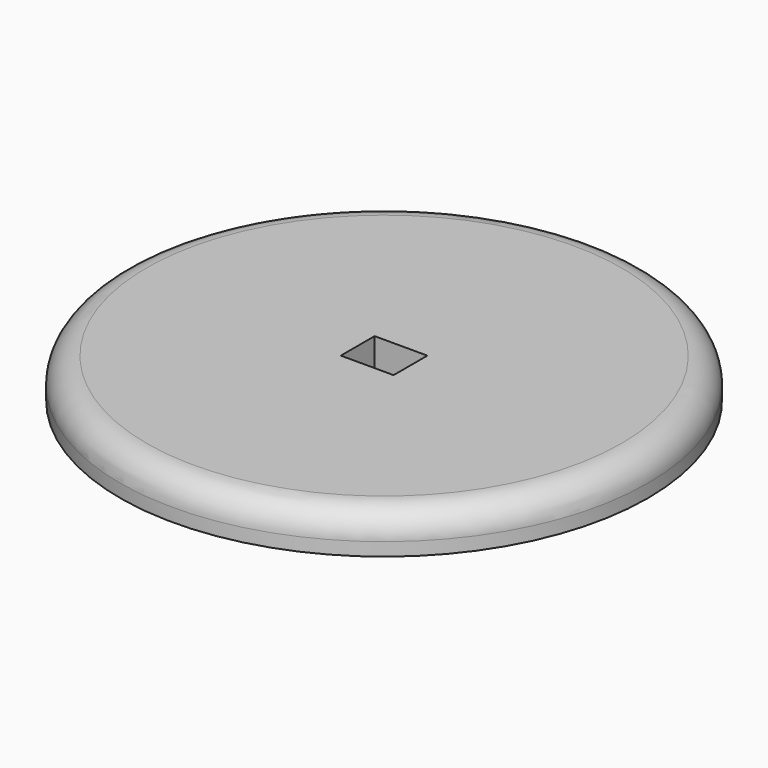
from build123d import *

# Parameters (mm, degrees)
F0_R     = 100
F1_DEPTH = 15
F2_R     = 10
F3_W     = 20
F3_H     = 16
F4_DEPTH = 50


with BuildPart() as f1:
    # F0 (on Top) → F1 (new body)
    with BuildSketch(Plane.XY):
        Circle(F0_R)
    extrude(amount=F1_DEPTH)

    # F2
    f2_edges = [f1.edges().sort_by_distance(p)[0] for p in [
        (-100, 0, 15),
    ]]
    fillet(f2_edges, radius=F2_R)

    # F3 (on face) → F4 (cut)
    with BuildSketch(Plane.XY.offset(15)):
        Rectangle(F3_W, F3_H)
    extrude(amount=-F4_DEPTH, mode=Mode.SUBTRACT)


solid = f1.part
